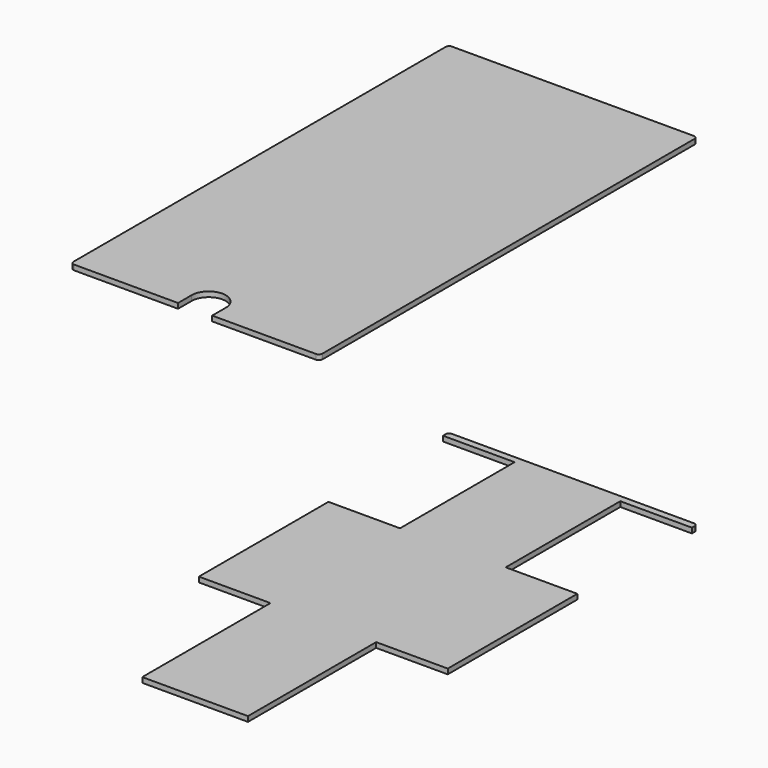
from build123d import *

# Parameters (mm, degrees)
F0_W      = 146
F0_H      = 277
F1_DEPTH  = 1.5
F2_R      = 2
F4_R      = 7.5
F5_DEPTH  = 100
F6_T      = -1.5
F12_DEPTH = 8
F15_W     = 42
F15_H     = 94
F16_DEPTH = 6
F17_W     = 42
F17_H     = 84
F18_DEPTH = 6


with BuildPart() as f1:
    # F0 (on Top) → F1 (new body, symmetric)
    with BuildSketch(Plane.XY):
        Rectangle(F0_W, F0_H)
    extrude(amount=F1_DEPTH, both=True)

    # F2
    f2_edges = [f1.edges().sort_by_distance(p)[0] for p in [
        (-73, 138.5, 0),
        (73, 138.5, 0),
        (73, -138.5, 0),
        (-73, -138.5, 0),
    ]]
    fillet(f2_edges, radius=F2_R)


with BuildPart() as f5:
    # F4 (on face) → F5 (new body)
    with BuildSketch(Plane.XY.offset(1.5)):
        with Locations((0, -128.5)):
            Circle(F4_R)
    extrude(amount=-F5_DEPTH)

    # F6
    f6_openings = [f5.faces().sort_by_distance(p)[0] for p in [
        (0, -128.5, 1.5),
    ]]
    offset(amount=F6_T, openings=f6_openings)


with BuildPart() as f9_1:
    # F9: instance of F1
    add(f1.part.mirror(Plane.XY.offset(100)))

    # F11 (on face) → F12 (cut)
    with BuildSketch(Plane.XY.offset(201.5)):
        with BuildLine():
            Line((-10, -128.5405694683), (-10, -138.5405694683))
            Line((-10, -138.5405694683), (10, -138.5405694683))
            Line((10, -138.5405694683), (10, -128.5405694683))
            ThreePointArc((10, -128.5405694683), (0, -118.5405694683), (-10, -128.5405694683))
        make_face()
    extrude(amount=-F12_DEPTH, mode=Mode.SUBTRACT)


with BuildPart() as f1_1:
    add(f1.part)

    # F15 (on face) → F16 (cut)
    with BuildSketch(Plane.XY.offset(1.5)):
        with Locations((52, -91.5)):
            Rectangle(F15_W, F15_H)
        with Locations((-52, -91.5)):
            Rectangle(F15_W, F15_H)
    extrude(amount=-F16_DEPTH, mode=Mode.SUBTRACT)

    # F17 (on face) → F18 (cut)
    with BuildSketch(Plane.XY.offset(1.5)):
        with Locations((-52, 92.5)):
            Rectangle(F17_W, F17_H)
        with Locations((52, 92.5)):
            Rectangle(F17_W, F17_H)
    extrude(amount=-F18_DEPTH, mode=Mode.SUBTRACT)


solid = Compound([f9_1.part, f1_1.part])
